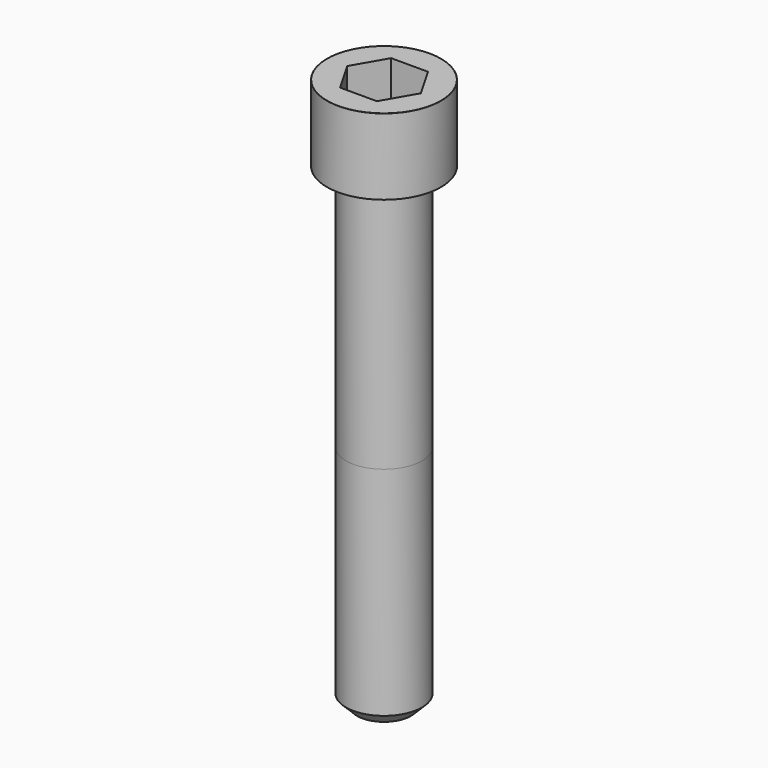
from build123d import *

# Parameters (mm, degrees)
POCKET_DEPTH = 10.07


with BuildPart() as part:
    # Sketch → Revolve (revolve)
    with BuildSketch(Plane.YZ):
        with BuildLine():
            Line((5.999, 0), (9, 0))
            Line((9, 0), (9, 11.97229))
            ThreePointArc((9, 11.97229), (8.991884, 11.991884), (8.97229, 12))
            Line((8.97229, 12), (0, 12))
            Line((0, -75), (0, 12))
            Line((4.25, -75), (0, -75))
            Line((6, -73.25), (4.25, -75))
            Line((6, -39), (6, -73.25))
            Line((5.999, 0), (6, -39))
        make_face()
    revolve(axis=Axis((0, 0, 0), (0, 0, 1)))

    # Sketch001 → Pocket (cut)
    with BuildSketch(Plane.XY.offset(12)):
        Polygon((5.813917, 0), (2.906959, 5.035), (-2.906959, 5.035), (-5.813917, 0), (-2.906959, -5.035), (2.906959, -5.035), align=None)
    extrude(amount=-POCKET_DEPTH, mode=Mode.SUBTRACT)


solid = part.part
